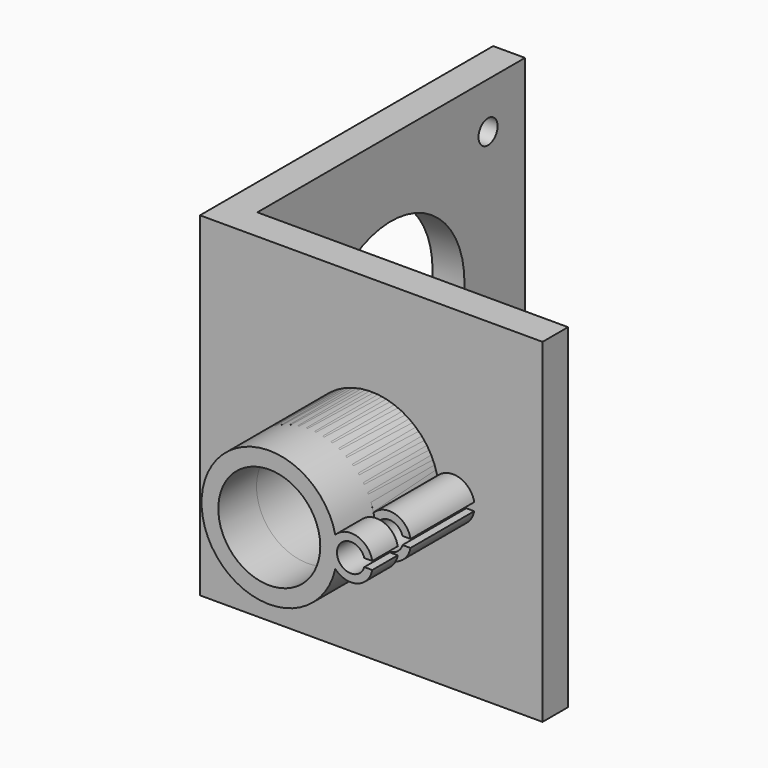
from build123d import *

# Parameters (mm, degrees)
PAD_DEPTH     = 42
SKETCH001_R   = 1.5
SKETCH001_R_2 = 11.5
POCKET_DEPTH  = 4.001
SKETCH002_R   = 8.5
SKETCH002_R_2 = 6.4
PAD001_DEPTH  = 16
PAD002_DEPTH  = 4
SKETCH004_R   = 6.4
PAD003_DEPTH  = 10


with BuildPart() as body:
    # Sketch → Pad (new body)
    with BuildSketch(Plane.XY):
        Polygon((0, 0), (-43, 0), (-43, 46), (-39, 46), (-39, 4), (0, 4), align=None)
    extrude(amount=PAD_DEPTH)

    # Sketch001 (on Face4 of Pad) → Pocket (cut, through all)
    with BuildSketch(Plane.YZ.offset(-39)):
        with Locations((9.2, 36.2)):
            Circle(SKETCH001_R)
        with Locations((40.2, 36.2)):
            Circle(SKETCH001_R)
        with Locations((9.2, 5.2)):
            Circle(SKETCH001_R)
        with Locations((40.2, 5.2)):
            Circle(SKETCH001_R)
        with Locations((25, 21)):
            Circle(SKETCH001_R_2)
    extrude(amount=-POCKET_DEPTH, mode=Mode.SUBTRACT)

    # Sketch002 (on Face1 of Pocket) → Pad001 (join)
    with BuildSketch(Plane.XZ):
        with Locations((-21.5, 21)):
            Circle(SKETCH002_R)
        with Locations((-21.5, 21)):
            Circle(SKETCH002_R_2, mode=Mode.SUBTRACT)
    extrude(amount=PAD001_DEPTH)

    # Sketch003 (on Face15 of Pad001) → Pad002 (join)
    with BuildSketch(Plane.XZ.offset(16)):
        with BuildLine():
            ThreePointArc((-9.572949, 21.5), (-13, 21), (-9.572949, 20.5))
            Line((-9.572949, 20.5), (-8.572949, 20.5))
            ThreePointArc((-8.572949, 21.5), (-13.973344, 21), (-8.572949, 20.5))
            Line((-9.572949, 21.5), (-8.572949, 21.5))
        make_face()
    extrude(amount=-PAD002_DEPTH)


with BuildPart() as body001:
    # Sketch004 → Pad003 (new body)
    with BuildSketch(Plane.XZ):
        with BuildLine():
            ThreePointArc((-13.212395, 22.888281), (-30, 21), (-13.212395, 19.111719))
            ThreePointArc((-13.212395, 19.111719), (-10.469286, 18.39096), (-8.572949, 20.5))
            Line((-9.572949, 20.5), (-8.572949, 20.5))
            ThreePointArc((-9.572949, 21.5), (-13, 21), (-9.572949, 20.5))
            Line((-9.572949, 21.5), (-8.572949, 21.5))
            ThreePointArc((-8.572949, 21.5), (-10.469286, 23.60904), (-13.212395, 22.888281))
        make_face()
        with Locations((-21.5, 21)):
            Circle(SKETCH004_R, mode=Mode.SUBTRACT)
    extrude(amount=PAD003_DEPTH)


solid = Compound([body.part, body001.part])
